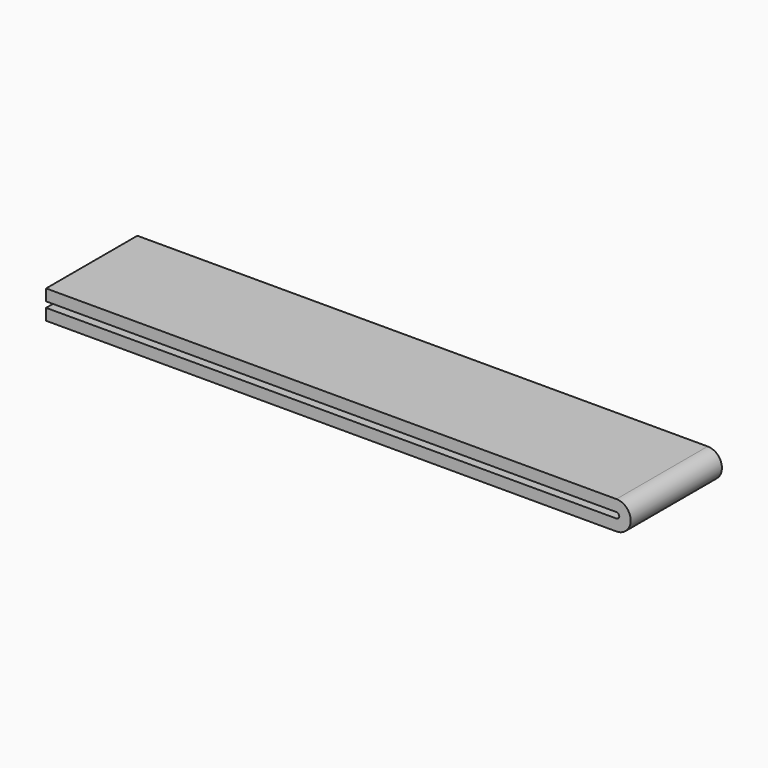
from build123d import *

# Parameters (mm, degrees)
F1_DEPTH = 25.4


with BuildPart() as f1:
    # F0 (on Front) → F1 (new body)
    with BuildSketch(Plane.XZ):
        with BuildLine():
            Line((0, 2.54), (0, 0))
            Line((0, 0), (127, 0))
            ThreePointArc((127, 0), (130.175, 3.175), (127, 6.35))
            Line((127, 6.35), (0, 6.35))
            Line((0, 6.35), (0, 3.81))
            Line((0, 3.81), (127, 3.81))
            ThreePointArc((127, 3.81), (127.635, 3.175), (127, 2.54))
            Line((127, 2.54), (0, 2.54))
        make_face()
    extrude(amount=F1_DEPTH)


solid = f1.part
